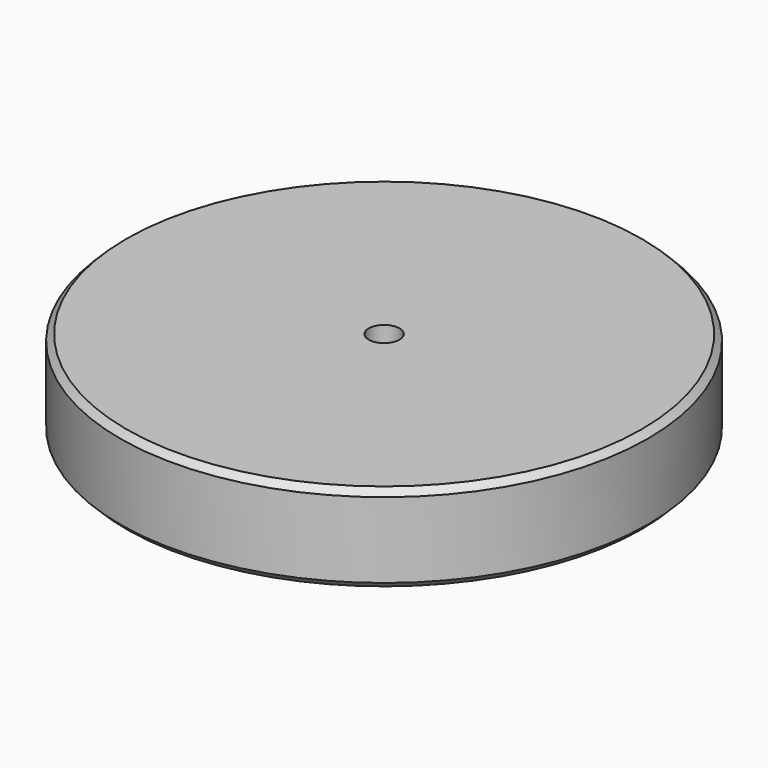
from build123d import *

# Parameters (mm, degrees)
F0_R     = 60
F0_R_2   = 3.5
F1_DEPTH = 20
F2_START = 17
F2_DEPTH = 3
F3_SIZE  = 1.414
F4_SIZE  = 1.414
F6_DEPTH = 150
F8_DEPTH = 1


with BuildPart() as f1:
    # F0 (on Top) → F1 (new body)
    with BuildSketch(Plane.XY):
        Circle(F0_R)
        Polygon((-28.0014880557, -10.5), (-23.0940107676, -19), (-28.0014880557, -27.5), (-37.8164426319, -27.5), (-42.72391992, -19), (-37.8164426319, -10.5), align=None, mode=Mode.SUBTRACT)
        Polygon((-21.6972137465, -20.5806765917), (-11.8822591703, -20.5806765917), (-6.9747818822, -29.0806765917), (-11.8822591703, -37.5806765917), (-21.6972137465, -37.5806765917), (-26.6046910346, -29.0806765917), align=None, mode=Mode.SUBTRACT)
        Polygon((-4.9074772881, -29.5), (4.9074772881, -29.5), (9.8149545762, -38), (4.9074772881, -46.5), (-4.9074772881, -46.5), (-9.8149545762, -38), align=None, mode=Mode.SUBTRACT)
        Polygon((6.9747818822, -29.0806765917), (11.8822591703, -20.5806765917), (21.6972137465, -20.5806765917), (26.6046910346, -29.0806765917), (21.6972137465, -37.5806765917), (11.8822591703, -37.5806765917), align=None, mode=Mode.SUBTRACT)
        Polygon((23.0940107676, -19), (28.0014880557, -10.5), (37.8164426319, -10.5), (42.72391992, -19), (37.8164426319, -27.5), (28.0014880557, -27.5), align=None, mode=Mode.SUBTRACT)
        Polygon((-23.0940107676, 19), (-28.0014880557, 10.5), (-37.8164426319, 10.5), (-42.72391992, 19), (-37.8164426319, 27.5), (-28.0014880557, 27.5), align=None, mode=Mode.SUBTRACT)
        Polygon((-26.6046910346, 29.0806765917), (-21.6972137465, 37.5806765917), (-11.8822591703, 37.5806765917), (-6.9747818822, 29.0806765917), (-11.8822591703, 20.5806765917), (-21.6972137465, 20.5806765917), align=None, mode=Mode.SUBTRACT)
        Circle(F0_R_2, mode=Mode.SUBTRACT)
        Polygon((21.6972137465, 20.5806765917), (11.8822591703, 20.5806765917), (6.9747818822, 29.0806765917), (11.8822591703, 37.5806765917), (21.6972137465, 37.5806765917), (26.6046910346, 29.0806765917), align=None, mode=Mode.SUBTRACT)
        Polygon((28.6719956287, -8.5), (23.7645183406, 0), (28.6719956287, 8.5), (38.4869502049, 8.5), (43.3944274931, 0), (38.4869502049, -8.5), align=None, mode=Mode.SUBTRACT)
        Polygon((28.0014880557, 10.5), (23.0940107676, 19), (28.0014880557, 27.5), (37.8164426319, 27.5), (42.72391992, 19), (37.8164426319, 10.5), align=None, mode=Mode.SUBTRACT)
        Polygon((9.8149545762, 38), (4.9074772881, 29.5), (-4.9074772881, 29.5), (-9.8149545762, 38), (-4.9074772881, 46.5), (4.9074772881, 46.5), align=None, mode=Mode.SUBTRACT)
    extrude(amount=F1_DEPTH)

    # F0 (on Top) → F2 (join)
    with BuildSketch(Plane.XY.offset(F2_START)):
        Polygon((-37.8164426319, 10.5), (-28.0014880557, 10.5), (-23.0940107676, 19), (-28.0014880557, 27.5), (-37.8164426319, 27.5), (-42.72391992, 19), align=None)
        Polygon((-4.9074772881, 29.5), (4.9074772881, 29.5), (9.8149545762, 38), (4.9074772881, 46.5), (-4.9074772881, 46.5), (-9.8149545762, 38), align=None)
        Polygon((28.0014880557, 27.5), (23.0940107676, 19), (28.0014880557, 10.5), (37.8164426319, 10.5), (42.72391992, 19), (37.8164426319, 27.5), align=None)
        Polygon((37.8164426319, -10.5), (28.0014880557, -10.5), (23.0940107676, -19), (28.0014880557, -27.5), (37.8164426319, -27.5), (42.72391992, -19), align=None)
        Polygon((9.8149545762, -38), (4.9074772881, -29.5), (-4.9074772881, -29.5), (-9.8149545762, -38), (-4.9074772881, -46.5), (4.9074772881, -46.5), align=None)
        Polygon((-28.0014880557, -27.5), (-23.0940107676, -19), (-28.0014880557, -10.5), (-37.8164426319, -10.5), (-42.72391992, -19), (-37.8164426319, -27.5), align=None)
        Polygon((-6.9747818822, -29.0806765917), (-11.8822591703, -20.5806765917), (-21.6972137465, -20.5806765917), (-26.6046910346, -29.0806765917), (-21.6972137465, -37.5806765917), (-11.8822591703, -37.5806765917), align=None)
        Polygon((21.6972137465, -20.5806765917), (11.8822591703, -20.5806765917), (6.9747818822, -29.0806765917), (11.8822591703, -37.5806765917), (21.6972137465, -37.5806765917), (26.6046910346, -29.0806765917), align=None)
        Polygon((28.6719956287, 8.5), (23.7645183406, 0), (28.6719956287, -8.5), (38.4869502049, -8.5), (43.3944274931, 0), (38.4869502049, 8.5), align=None)
        Polygon((6.9747818822, 29.0806765917), (11.8822591703, 20.5806765917), (21.6972137465, 20.5806765917), (26.6046910346, 29.0806765917), (21.6972137465, 37.5806765917), (11.8822591703, 37.5806765917), align=None)
        Polygon((-11.8822591703, 37.5806765917), (-21.6972137465, 37.5806765917), (-26.6046910346, 29.0806765917), (-21.6972137465, 20.5806765917), (-11.8822591703, 20.5806765917), (-6.9747818822, 29.0806765917), align=None)
    extrude(amount=F2_DEPTH)

    # F3
    f3_edges = [f1.edges().sort_by_distance(p)[0] for p in [
        (-60, 0, 20),
    ]]
    chamfer(f3_edges, length=F3_SIZE)

    # F4
    f4_edges = [f1.edges().sort_by_distance(p)[0] for p in [
        (-60, 0, 0),
    ]]
    chamfer(f4_edges, length=F4_SIZE)

    # F5 (on Right) → F6 (cut)
    with BuildSketch(Plane.YZ):
        with BuildLine():
            Line((-1.75, 1.75), (1.75, 1.75))
            ThreePointArc((1.75, 1.75), (0, 3.5), (-1.75, 1.75))
        make_face()
        with BuildLine():
            Line((1.75, -1.75), (1.75, 1.75))
            ThreePointArc((1.75, 1.75), (0, 0), (-1.75, 1.75))
            Line((-1.75, 1.75), (-1.75, -1.75))
            Line((-1.75, -1.75), (1.75, -1.75))
        make_face()
        with BuildLine():
            ThreePointArc((-1.75, 1.75), (0, 0), (1.75, 1.75))
            Line((1.75, 1.75), (-1.75, 1.75))
        make_face()
    extrude(amount=-F6_DEPTH, mode=Mode.SUBTRACT)

    # F7 (on face) → F8 (cut)
    with BuildSketch(Plane(origin=(0, 0, 0), x_dir=(1, 0, 0), z_dir=(0, 0, -1))):
        with BuildLine():
            ThreePointArc((-44.8152950723, -35.3610056924), (-42.7085709868, -35.6094279688), (-42.4601487104, -33.5027038833))
            ThreePointArc((-42.4601487104, -33.5027038833), (-46.8398499891, -27.043), (-50.2442670136, -20.02021549))
            ThreePointArc((-50.2442670136, -20.02021549), (-52.1929547286, -19.1819934495), (-53.0311767692, -21.1306811645))
            ThreePointArc((-53.0311767692, -21.1306811645), (-49.4379262004, -28.543), (-44.8152950723, -35.3610056924))
        make_face()
        with BuildLine():
            ThreePointArc((-53.0311767692, 21.1306811645), (-52.1929547286, 19.1819934495), (-50.2442670136, 20.02021549))
            ThreePointArc((-50.2442670136, 20.02021549), (-46.8398499891, 27.043), (-42.4601487104, 33.5027038833))
            ThreePointArc((-42.4601487104, 33.5027038833), (-42.7085709868, 35.6094279688), (-44.8152950723, 35.3610056924))
            ThreePointArc((-44.8152950723, 35.3610056924), (-49.4379262004, 28.543), (-53.0311767692, 21.1306811645))
        make_face()
        with BuildLine():
            ThreePointArc((-8.2158816968, 56.4916868569), (-9.4843837418, 54.7914214183), (-7.7841183032, 53.5229193733))
            ThreePointArc((-7.7841183032, 53.5229193733), (0, 54.086), (7.7841183032, 53.5229193733))
            ThreePointArc((7.7841183032, 53.5229193733), (9.4843837418, 54.7914214183), (8.2158816968, 56.4916868569))
            ThreePointArc((8.2158816968, 56.4916868569), (0, 57.086), (-8.2158816968, 56.4916868569))
        make_face()
        with BuildLine():
            ThreePointArc((44.8152950723, 35.3610056924), (42.7085709868, 35.6094279688), (42.4601487104, 33.5027038833))
            ThreePointArc((42.4601487104, 33.5027038833), (46.8398499891, 27.043), (50.2442670136, 20.02021549))
            ThreePointArc((50.2442670136, 20.02021549), (52.1929547286, 19.1819934495), (53.0311767692, 21.1306811645))
            ThreePointArc((53.0311767692, 21.1306811645), (49.4379262004, 28.543), (44.8152950723, 35.3610056924))
        make_face()
        with BuildLine():
            ThreePointArc((53.0311767692, -21.1306811645), (52.1929547286, -19.1819934495), (50.2442670136, -20.02021549))
            ThreePointArc((50.2442670136, -20.02021549), (46.8398499891, -27.043), (42.4601487104, -33.5027038833))
            ThreePointArc((42.4601487104, -33.5027038833), (42.7085709868, -35.6094279688), (44.8152950723, -35.3610056924))
            ThreePointArc((44.8152950723, -35.3610056924), (49.4379262004, -28.543), (53.0311767692, -21.1306811645))
        make_face()
        with BuildLine():
            ThreePointArc((8.2158816968, -56.4916868569), (9.4843837418, -54.7914214183), (7.7841183032, -53.5229193733))
            ThreePointArc((7.7841183032, -53.5229193733), (0, -54.086), (-7.7841183032, -53.5229193733))
            ThreePointArc((-7.7841183032, -53.5229193733), (-9.4843837418, -54.7914214183), (-8.2158816968, -56.4916868569))
            ThreePointArc((-8.2158816968, -56.4916868569), (0, -57.086), (8.2158816968, -56.4916868569))
        make_face()
    extrude(amount=-F8_DEPTH, mode=Mode.SUBTRACT)


solid = f1.part
